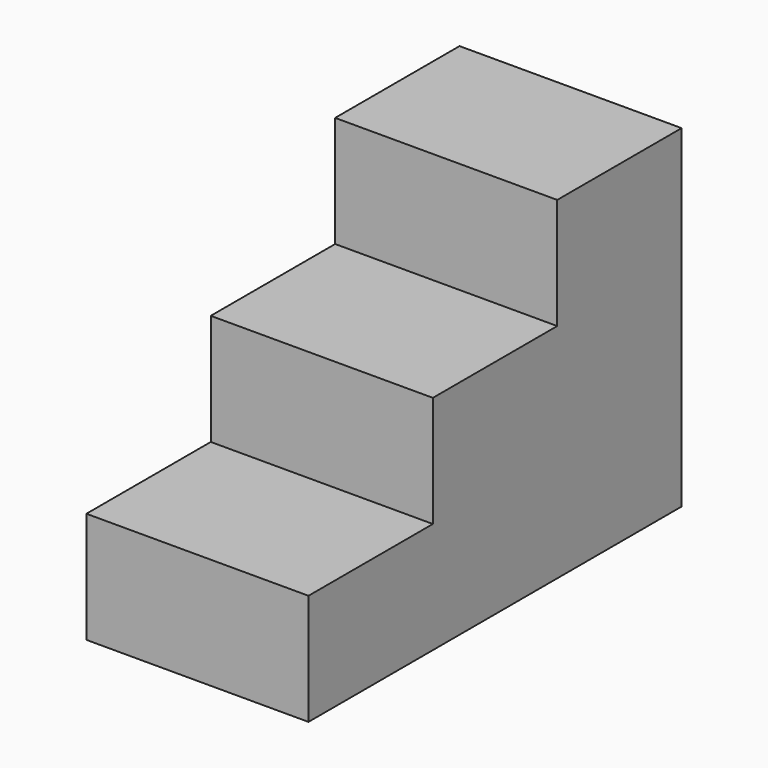
from build123d import *

# Parameters (mm, degrees)
F0_W     = 1270
F0_H     = 1905
F1_DEPTH = 2667
F2_W     = 1270
F2_H     = 889
F3_DEPTH = 1270
F4_W     = 1270
F4_H     = 889
F5_DEPTH = 635


with BuildPart() as f1:
    # F0 (on Front) → F1 (new body)
    with BuildSketch(Plane.XZ):
        with Locations((582.681405, 913.346171)):
            Rectangle(F0_W, F0_H)
    extrude(amount=-F1_DEPTH)

    # F2 (on face) → F3 (cut)
    with BuildSketch(Plane.XY.offset(1865.846171)):
        with Locations((582.681405, 444.5)):
            Rectangle(F2_W, F2_H)
    extrude(amount=-F3_DEPTH, mode=Mode.SUBTRACT)

    # F4 (on face) → F5 (cut)
    with BuildSketch(Plane.XY.offset(1865.846171)):
        with Locations((582.681405, 1333.5)):
            Rectangle(F4_W, F4_H)
    extrude(amount=-F5_DEPTH, mode=Mode.SUBTRACT)


solid = f1.part
